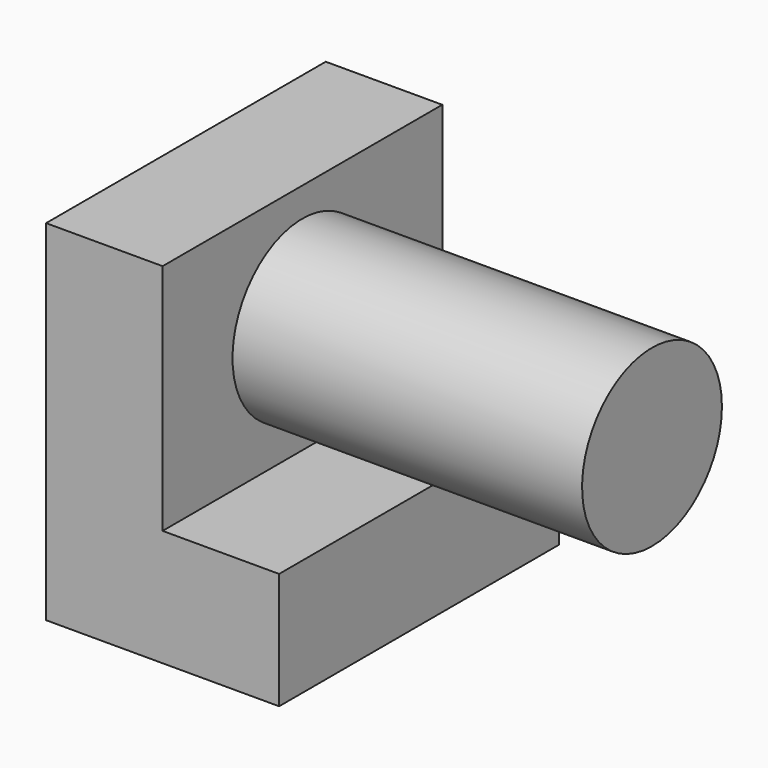
from build123d import *

# Parameters (mm, degrees)
F1_DEPTH = 76.2
F3_DEPTH = 76.2


with BuildPart() as f1:
    # F0 (on Front) → F1 (new body)
    with BuildSketch(Plane.XZ):
        Polygon((25.399996, 0), (0, 0), (0, 50.8), (-25.4, 50.8), (-25.4, -25.4), (25.399996, -25.4), align=None)
    extrude(amount=F1_DEPTH)

    # F2 (on face) → F3 (join)
    with BuildSketch(Plane.YZ):
        with BuildLine():
            ThreePointArc((-38.1, 6.35), (-24.629616, 11.929616), (-19.05, 25.4))
            ThreePointArc((-19.05, 25.4), (-51.570384, 38.870384), (-38.1, 6.35))
        make_face()
    extrude(amount=F3_DEPTH)


solid = f1.part
